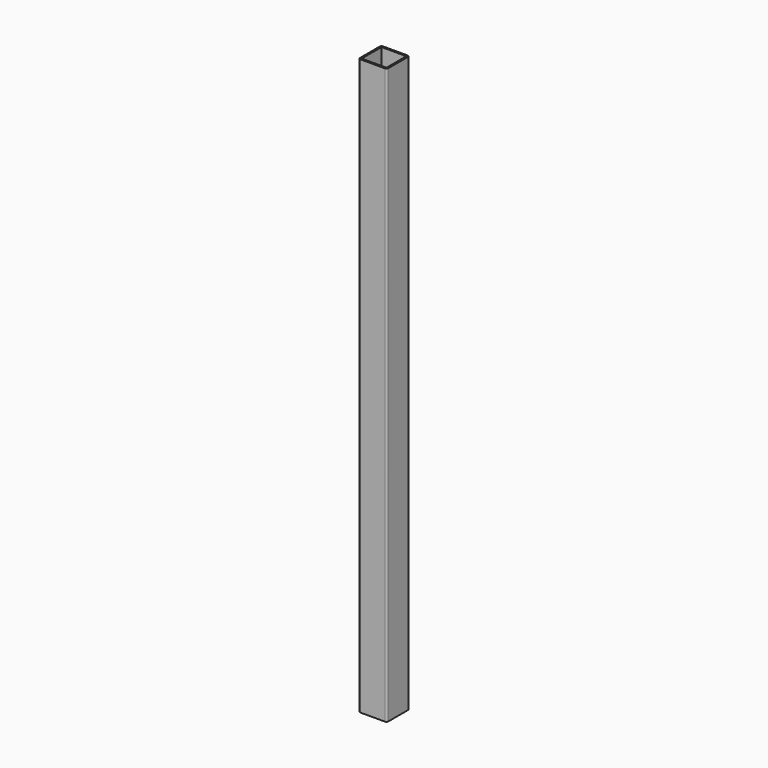
from build123d import *

# Parameters (mm, degrees)
F0_W     = 44
F0_H     = 44
F1_DEPTH = 1020


with BuildPart() as f1:
    # F0 (on Top) → F1 (new body)
    with BuildSketch(Plane.XY):
        with BuildLine():
            ThreePointArc((25, 22), (24.12132, 24.12132), (22, 25))
            Line((22, 25), (-22, 25))
            ThreePointArc((-22, 25), (-24.12132, 24.12132), (-25, 22))
            Line((-25, 22), (-25, -22))
            ThreePointArc((-25, -22), (-24.12132, -24.12132), (-22, -25))
            Line((-22, -25), (22, -25))
            ThreePointArc((22, -25), (24.12132, -24.12132), (25, -22))
            Line((25, -22), (25, 22))
        make_face()
        Rectangle(F0_W, F0_H, mode=Mode.SUBTRACT)
    extrude(amount=-F1_DEPTH)


solid = f1.part
